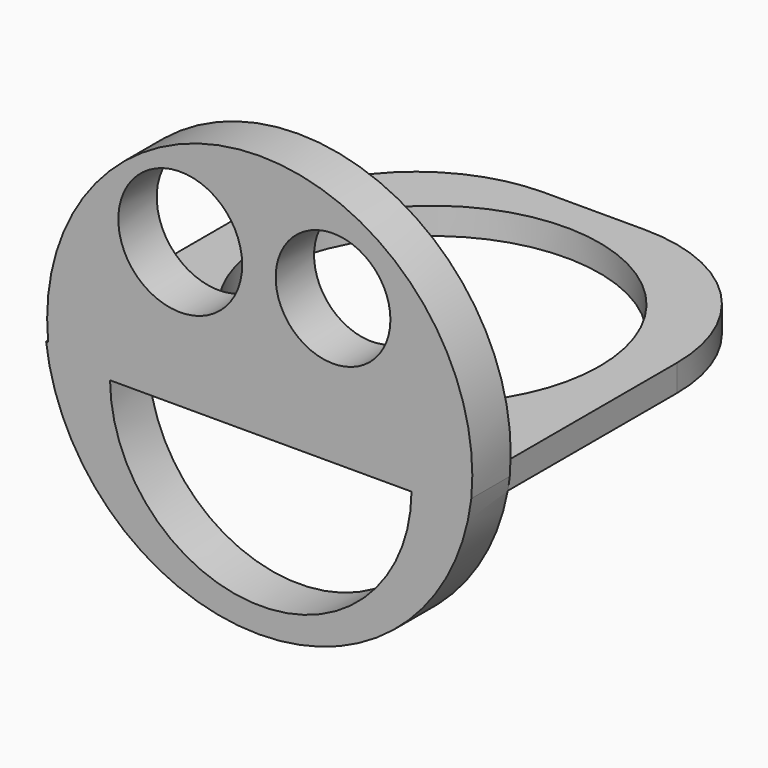
from build123d import *

# Parameters (mm, degrees)
F0_W     = 20.051646
F0_H     = 17.69263
F0_R     = 7.954522
F1_DEPTH = 1.27
F2_R     = 7.62
F4_DEPTH = 2.286
F5_R     = 2.731044
F5_R_2   = 2.948772
F6_DEPTH = 25.4


with BuildPart() as f1:
    # F0 (on Top) → F1 (new body)
    with BuildSketch(Plane.XY):
        with Locations((0, 0.786339)):
            Rectangle(F0_W, F0_H)
        Circle(F0_R, mode=Mode.SUBTRACT)
    extrude(amount=F1_DEPTH)

    # F2
    f2_edges = [f1.edges().sort_by_distance(p)[0] for p in [
        (-10.025823, 9.632654, 0.635),
        (10.025823, 9.632654, 0.635),
    ]]
    fillet(f2_edges, radius=F2_R)

    # F3 (on face) → F4 (join)
    with BuildSketch(Plane.XZ.offset(8.059976)):
        with BuildLine():
            Line((-10.025823, 0.635), (-10.122525, 0.635))
            ThreePointArc((-10.122525, 0.635), (0, -8.343707), (10.122525, 0.635))
            Line((10.122525, 0.635), (-10.025823, 0.635))
        make_face()
        with BuildLine():
            Line((-10.025823, 0.635), (10.122525, 0.635))
            ThreePointArc((10.122525, 0.635), (0.048351, 11.722829), (-10.025823, 0.635))
        make_face()
    extrude(amount=F4_DEPTH)

    # F5 (on face) → F6 (cut)
    with BuildSketch(Plane.XZ.offset(10.345976)):
        with BuildLine():
            Line((7.273636, 0), (-7.077051, 0))
            ThreePointArc((-7.077051, 0), (0.098292, -7.131791), (7.273636, 0))
        make_face()
        with Locations((3.538527, 6.880467)):
            Circle(F5_R)
        with Locations((-3.73511, 6.880467)):
            Circle(F5_R_2)
    extrude(amount=-F6_DEPTH, mode=Mode.SUBTRACT)


solid = f1.part
